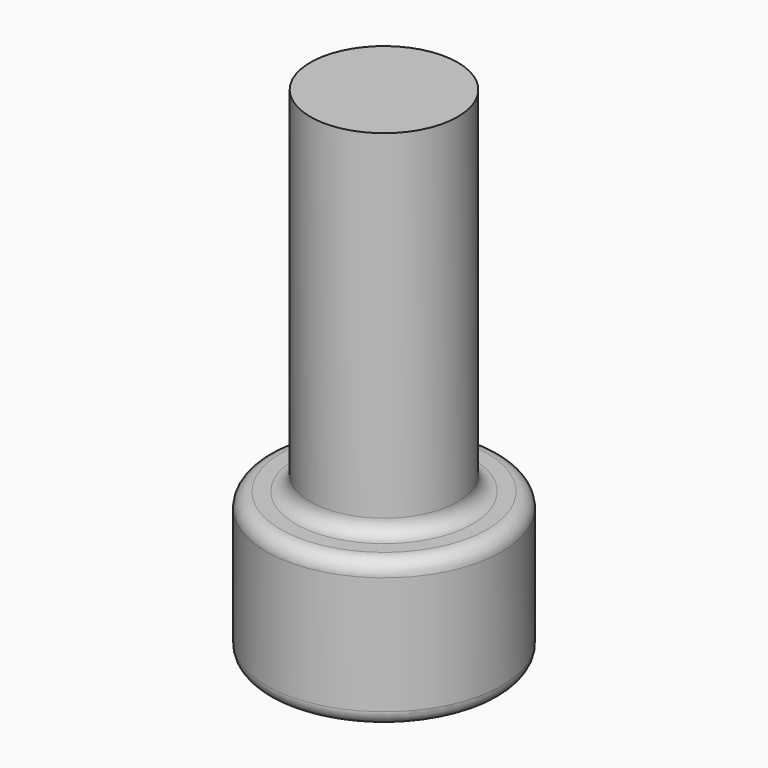
from build123d import *

# Parameters (mm, degrees)
F0_R      = 2
F0_R_2    = 1.25
F1_DEPTH  = 2.5
F2_DEPTH  = 8.5
F3_R      = 1.25
F2_FACE_R = 1.25
F4_DEPTH  = 1.5
F5_R      = 0.25


with BuildPart() as f1:
    # F0 (on Top) → F1 (new body)
    with BuildSketch(Plane.XY):
        Circle(F0_R)
        Circle(F0_R_2, mode=Mode.SUBTRACT)
    extrude(amount=F1_DEPTH)

    # F0 (on Top) → F2 (join)
    with BuildSketch(Plane.XY):
        Circle(F0_R_2)
    extrude(amount=F2_DEPTH)

    # F0 (on Top) + F3 (on face) + F2_face (on face) → F4 (cut)
    with BuildSketch(Plane.XY):
        Circle(F0_R_2)
    with BuildSketch(Plane.XY):
        Polygon((-0.8660254038, -1.5), (0.8660254038, -1.5), (1.7320508076, 0), (0.8660254038, 1.5), (-0.8660254038, 1.5), (-1.7320508076, 0), align=None)
        Circle(F3_R, mode=Mode.SUBTRACT)
        Circle(F3_R)
    with BuildSketch(Plane.XY.offset(8.5)):
        Circle(F2_FACE_R)
    extrude(amount=F4_DEPTH, mode=Mode.SUBTRACT)

    # F5
    f5_edges = [f1.edges().sort_by_distance(p)[0] for p in [
        (-1.25, 0, 2.5),
        (-2, 0, 2.5),
        (-2, 0, 0),
    ]]
    fillet(f5_edges, radius=F5_R)


solid = f1.part
